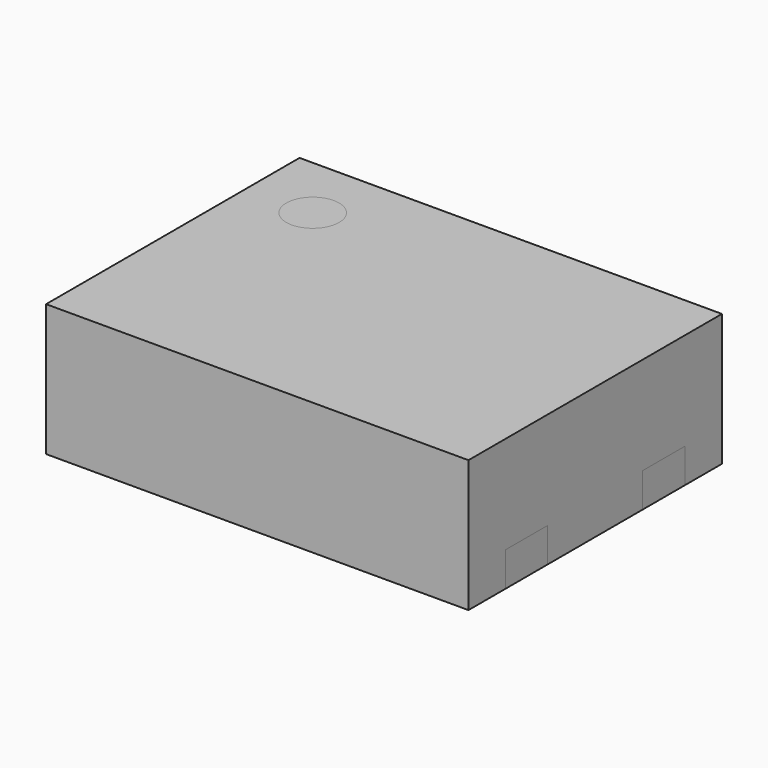
from build123d import *

# Parameters (mm, degrees)
F0_W     = 1.6
F0_H     = 1.2
F1_DEPTH = 0.5
F2_W     = 0.25
F2_H     = 0.2
F3_DEPTH = 0.13
F5_R     = 0.1
F6_DEPTH = 0.01


with BuildPart() as f1:
    # F0 (on Top) → F1 (new body)
    with BuildSketch(Plane.XY):
        Rectangle(F0_W, F0_H)
    extrude(amount=F1_DEPTH)


with BuildPart() as f3:
    # F2 (on face) → F3 (new body)
    with BuildSketch(Plane(origin=(0, 0, 0), x_dir=(1, 0, 0), z_dir=(0, 0, -1))):
        with Locations((-0.675, 0.325)):
            Rectangle(F2_W, F2_H)
        with Locations((-0.675, -0.325)):
            Rectangle(F2_W, F2_H)
        with Locations((0.675, 0.325)):
            Rectangle(F2_W, F2_H)
        with Locations((0.675, -0.325)):
            Rectangle(F2_W, F2_H)
        Polygon((0.325, 0.425), (-0.325, 0.425), (-0.325, -0.225), (-0.125, -0.425), (0.325, -0.425), align=None)
    extrude(amount=-F3_DEPTH)


with BuildPart() as f1_1:
    add(f1.part)

    # F4: cut F3
    add(f3.part, mode=Mode.SUBTRACT)


with BuildPart() as f6:
    # F5 (on face) → F6 (new body)
    with BuildSketch(Plane.XY.offset(0.5)):
        with Locations((-0.55, 0.35)):
            Circle(F5_R)
    extrude(amount=-F6_DEPTH)


with BuildPart() as f1_2:
    add(f1_1.part)

    # F7: cut F6
    add(f6.part, mode=Mode.SUBTRACT)


solid = Compound([f3.part, f6.part, f1_2.part])
